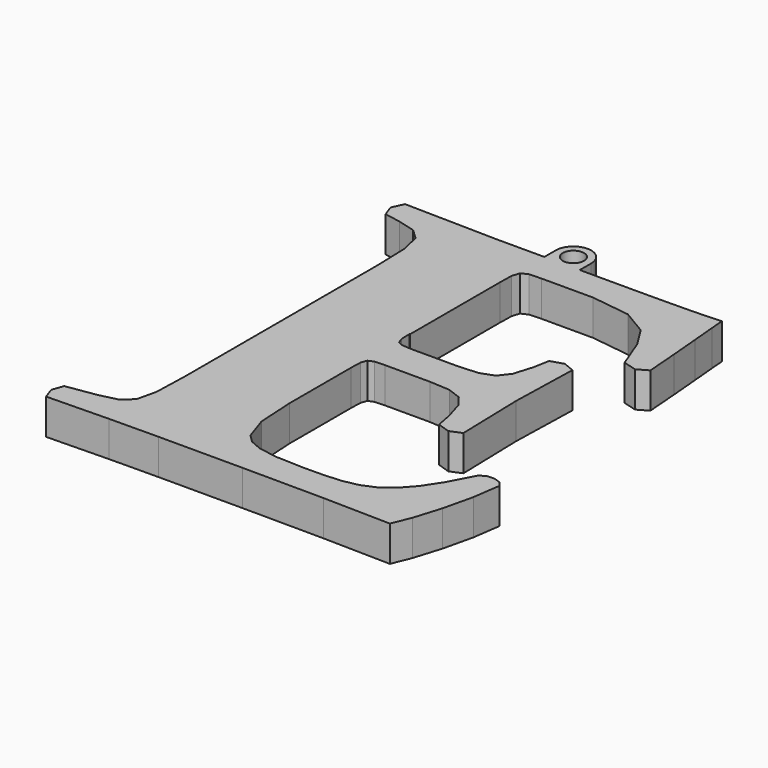
from build123d import *

# Parameters (mm, degrees)
F1_DEPTH = 5
F3_DEPTH = 5


with BuildPart() as f1:
    # F0 (on Top) → F1 (new body)
    with BuildSketch(Plane.XY):
        Polygon((-3.879217, 4.916668), (-3.927753, 6.405906), (-3.844433, 6.405906), (-3.844433, 22.24392), (-3.800751, 24.223369), (-3.466664, 25.280638), (-2.567135, 25.706135), (-0.81176, 25.786219), (6.433814, 25.786219), (11.910261, 25.061419), (15.364386, 23.003504), (17.155354, 20.150413), (18.823365, 15.84125), (20.727583, 15.318682), (22.194171, 16.179382), (21.842287, 20.738504), (21.474225, 24.951404), (21.170876, 28.300369), (21.013135, 30.249078), (19.420355, 30.143108), (16.641685, 30.064642), (12.990181, 30.016107), (8.795077, 29.999119), (-10.501916, 29.999119), (-23.646198, 30.249078), (-24.396884, 28.620705), (-23.8185, 27.049765), (-21.539748, 26.629122), (-19.078178, 25.970654), (-17.677922, 24.639967), (-17.050194, 21.902552), (-16.905395, 17.021477), (-16.905395, -16.850793), (-17.050194, -21.761799), (-17.677922, -24.487888), (-19.078178, -25.773276), (-21.539748, -26.37431), (-25.835968, -27.050574), (-26.407071, -28.648208), (-25.835968, -30.249078), (-17.084978, -30.060598), (-10.163784, -29.999928), (1.632822, -29.999928), (13.100195, -30.060598), (22.615623, -30.249078), (23.690689, -27.603072), (24.857973, -23.811624), (25.848911, -19.597915), (26.407071, -15.674611), (25.840821, -15.0032), (24.874961, -14.669112), (23.831443, -14.735444), (23.037075, -15.253159), (21.241253, -18.654704), (19.547356, -21.235186), (17.870447, -23.099767), (16.132869, -24.37302), (14.258581, -25.162535), (12.165882, -25.583987), (9.782779, -25.751435), (7.026759, -25.786219), (2.927108, -25.64142), (0.241465, -25.202172), (-1.440297, -24.469283), (-2.497567, -23.424956), (-3.625214, -20.063048), (-3.927753, -14.744343), (-3.927753, -3.878004), (-3.879217, -2.301402), (-3.581532, -1.47225), (-2.826801, -1.14787), (-1.399851, -1.095289), (4.920309, -1.095289), (7.829216, -1.266782), (9.707548, -1.977022), (10.874832, -3.509133), (11.661111, -6.151093), (12.082563, -8.424992), (13.859779, -9.012274), (15.453369, -8.340863), (15.197747, 1.265164), (15.453369, 10.867956), (13.859779, 11.513482), (12.082563, 10.95613), (11.661111, 8.678187), (10.874832, 6.088806), (9.707548, 4.58339), (7.829216, 3.88124), (4.920309, 3.705702), (-1.399851, 3.705702), (-2.826801, 3.776888), (-3.581532, 4.110166), align=None)
    extrude(amount=F1_DEPTH)

    # F2 (on Top) → F3 (join)
    with BuildSketch(Plane.XY):
        with BuildLine():
            ThreePointArc((-2.816698, 31.999119), (-1.316698, 33.499119), (0.183302, 31.999119))
            Line((0.183302, 31.999119), (1.183302, 31.999119))
            ThreePointArc((1.183302, 31.999119), (-1.316698, 34.499119), (-3.816698, 31.999119))
            Line((-3.816698, 31.999119), (-2.816698, 31.999119))
        make_face()
        with BuildLine():
            Line((1.183302, 31.999119), (0.183302, 31.999119))
            ThreePointArc((0.183302, 31.999119), (-1.316698, 30.499119), (-2.816698, 31.999119))
            Line((-2.816698, 31.999119), (-3.816698, 31.999119))
            Line((-3.816698, 31.999119), (-3.816698, 29.999119))
            Line((-3.816698, 29.999119), (1.183302, 29.999119))
            Line((1.183302, 29.999119), (1.183302, 31.999119))
        make_face()
    extrude(amount=F3_DEPTH)


solid = f1.part
